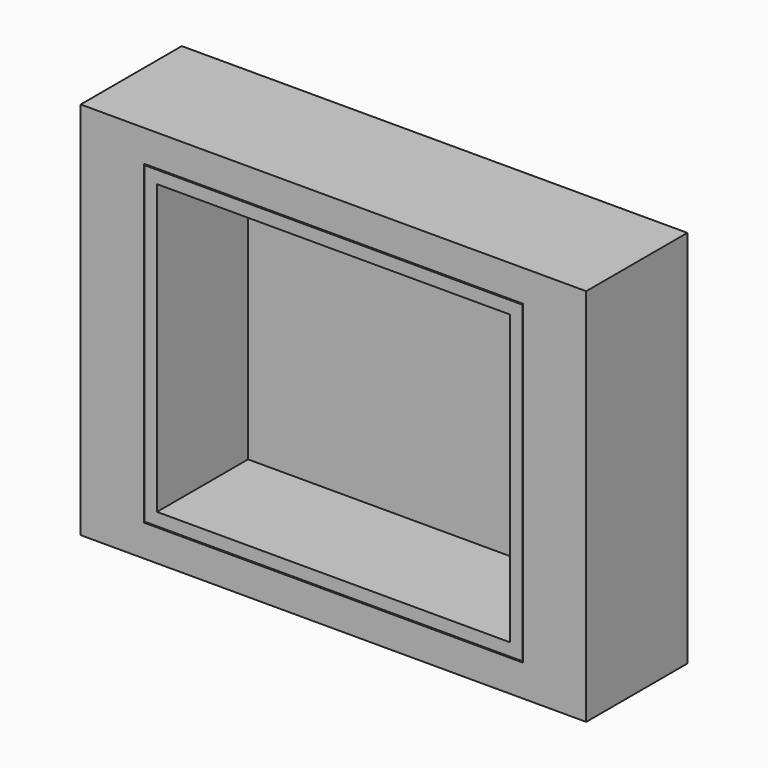
from build123d import *

# Parameters (mm, degrees)
F0_W     = 101.6
F0_H     = 76.2
F0_W_2   = 76.2
F0_H_2   = 63.5
F1_DEPTH = 25.4
F2_W     = 75.980544
F2_H     = 63.06307
F3_DEPTH = 25.4
F4_T     = -2.54


with BuildPart() as f1:
    # F0 (on Front) → F1 (new body)
    with BuildSketch(Plane.XZ):
        Rectangle(F0_W, F0_H)
        Rectangle(F0_W_2, F0_H_2, mode=Mode.SUBTRACT)
    extrude(amount=F1_DEPTH)


with BuildPart() as f3:
    # F2 (on Front) → F3 (new body)
    with BuildSketch(Plane.XZ):
        Rectangle(F2_W, F2_H)
    extrude(amount=F3_DEPTH)

    # F4
    f4_openings = [f3.faces().sort_by_distance(p)[0] for p in [
        (0, -25.4, 0),
    ]]
    offset(amount=F4_T, openings=f4_openings)


solid = Compound([f1.part, f3.part])
